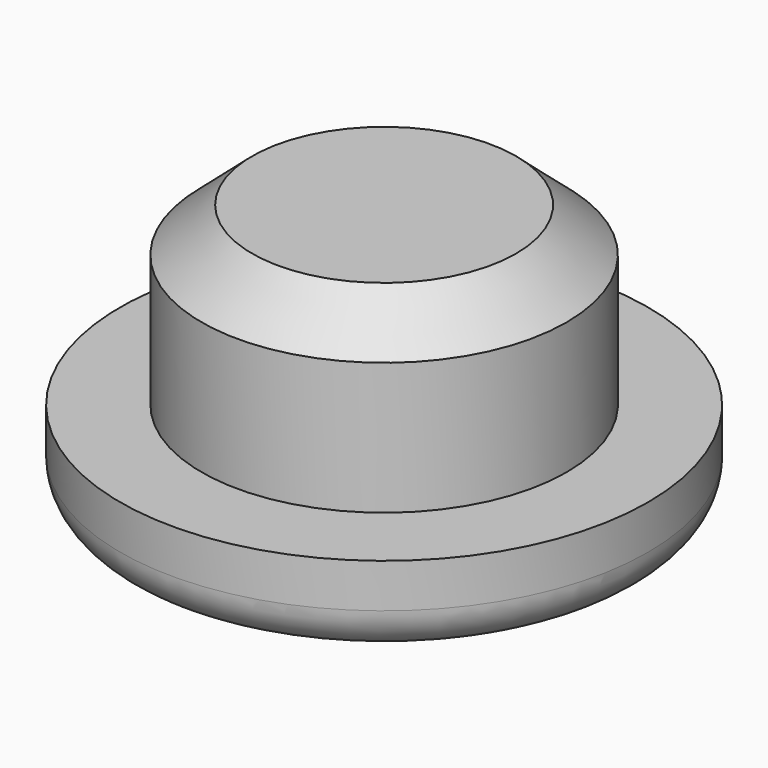
from build123d import *

# Parameters (mm, degrees)
CYLINDER_R        = 4.15
CYLINDER_DEPTH    = 3
CYLINDER001_R     = 6
CYLINDER001_DEPTH = 2
FILLET_R          = 1


with BuildPart() as cylinder:
    # Cylinder → Cylinder (new body)
    with BuildSketch(Plane.XY):
        Circle(CYLINDER_R)
    extrude(amount=CYLINDER_DEPTH)


with BuildPart() as cone:
    # Cone → Cone (revolve)
    with BuildSketch(Plane(origin=(0, 0, 3), x_dir=(1, 0, 0), z_dir=(0, -1, 0))):
        Polygon((0, 0), (4.15, 0), (3, 1), (0, 1), align=None)
    revolve(axis=Axis((0, 0, 3), (0, 0, 1)))


with BuildPart() as fusion:
    # Cylinder001 → Cylinder001 (new body)
    with BuildSketch(Plane.XY.offset(-2)):
        Circle(CYLINDER001_R)
    extrude(amount=CYLINDER001_DEPTH)

    # Fillet
    fillet_edges = [fusion.edges().sort_by_distance(p)[0] for p in [
        (-6, 0, -2),
    ]]
    fillet(fillet_edges, radius=FILLET_R)

    # Fusion: union Cylinder, Cone
    add(cylinder.part)
    add(cone.part)


solid = fusion.part
